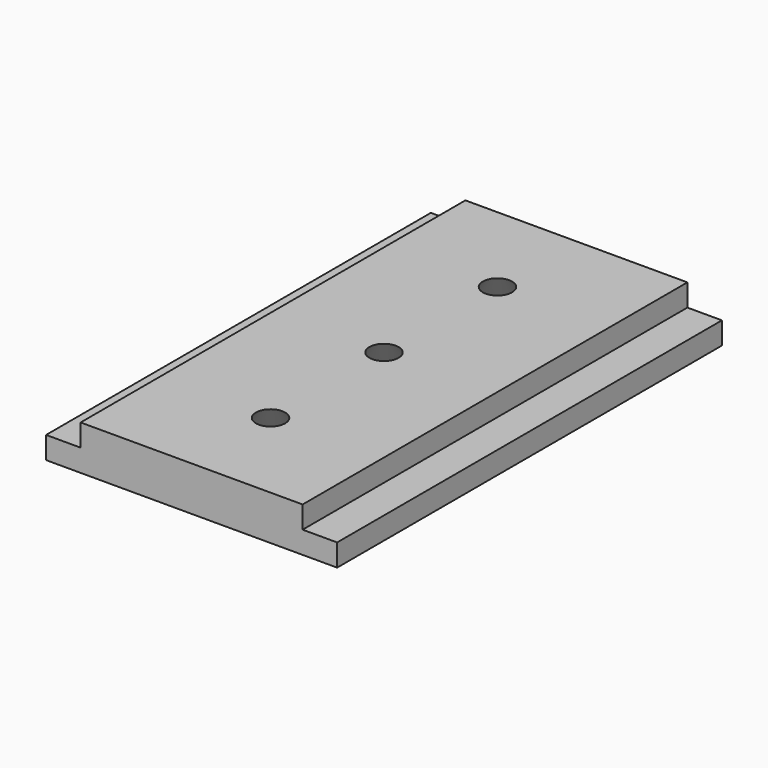
from build123d import *

# Parameters (mm, degrees)
F1_DEPTH = 39
F2_R     = 4
F3_DEPTH = 3.6
F3_TAPER = 38


with BuildPart() as f1:
    # F0 (on Front) → F1 (new body)
    with BuildSketch(Plane.XZ):
        Polygon((7.6, 1.8), (-10.4, 1.8), (-10.4, 0), (-13.2, 0), (-13.2, -1.8), (10.4, -1.8), (10.4, 0), (7.6, 0), align=None)
    extrude(amount=-F1_DEPTH)

    # F2 (on face) → F3 (cut, through all)
    with BuildSketch(Plane(origin=(0, 0, -1.8), x_dir=(1, 0, 0), z_dir=(0, 0, -1))):
        with Locations((-1.4, -31)):
            Circle(F2_R)
        with Locations((-1.4, -19.5)):
            Circle(F2_R)
        with Locations((-1.4, -8)):
            Circle(F2_R)
    extrude(amount=-F3_DEPTH, taper=F3_TAPER, mode=Mode.SUBTRACT)


solid = f1.part
